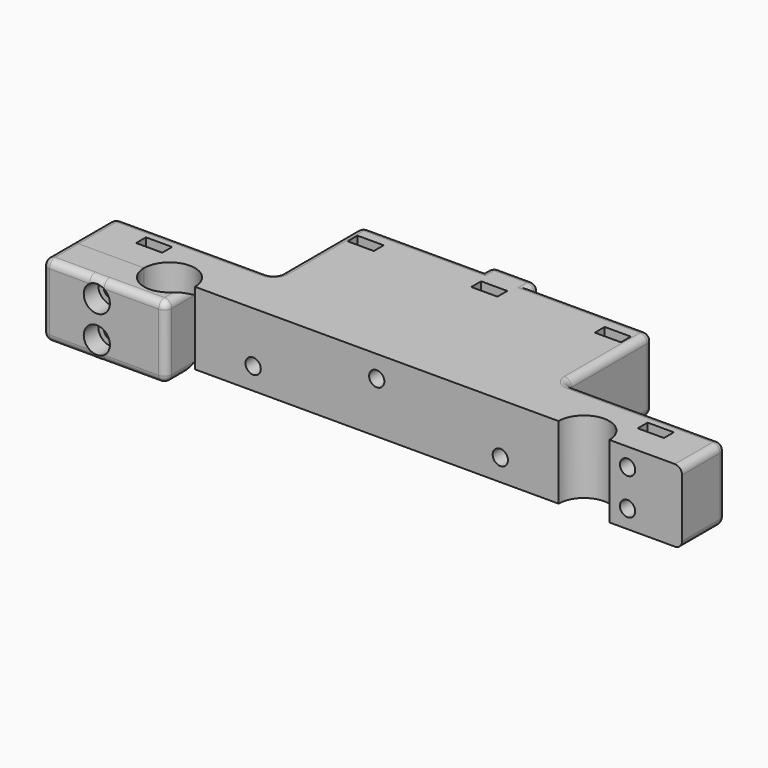
from build123d import *

# Parameters (mm, degrees)
PAD_DEPTH         = 10
SKETCH001_R       = 2.1
POCKET_DEPTH      = 45.001
POCKET_DEPTH_BACK = -3.001
SKETCH003_W       = 7.2
SKETCH003_H       = 3.4
POCKET002_DEPTH   = 20.001
POCKET004_DEPTH   = 45
FILLET001_R       = 2
PAD001_DEPTH      = 10
SKETCH005_R       = 2.1
POCKET003_DEPTH   = 10.001
SKETCH007_R       = 3.6
POCKET005_DEPTH   = 5
FILLET_R          = 2


with BuildPart() as body:
    # Sketch → Pad (new body, symmetric)
    with BuildSketch(Plane.XY):
        with BuildLine():
            Line((44, 45), (77.5, 45))
            Line((77.5, 45), (77.5, 48))
            Line((77.5, 48), (90.5, 48))
            Line((90.5, 48), (90.5, 45))
            Line((90.5, 45), (124, 45))
            Line((124, 45), (124, 15))
            Line((124, 15), (168, 15))
            Line((168, 15), (168, 0))
            Line((148, 0), (168, 0))
            ThreePointArc((148, 0), (141, 7), (134, 0))
            Line((34, 0), (134, 0))
            ThreePointArc((34, 0), (27, 7), (20, 0))
            Line((0, 0), (20, 0))
            Line((0, 0), (0, 15))
            Line((0, 15), (44, 15))
            Line((44, 45), (44, 15))
        make_face()
    extrude(amount=PAD_DEPTH, both=True)

    # Sketch001 (on Face4 of Pad) → Pocket (cut, two sides)
    with BuildSketch(Plane(origin=(0, 45, 0), x_dir=(-1, 0, 0), z_dir=(0, 1, 0))) as pocket_sk:
        with Locations((-118, -4)):
            Circle(SKETCH001_R)
        with Locations((-84, 4)):
            Circle(SKETCH001_R)
        with Locations((-50, -4)):
            Circle(SKETCH001_R)
        with Locations((-153, -5)):
            Circle(SKETCH001_R)
        with Locations((-153, 5)):
            Circle(SKETCH001_R)
        with Locations((-15, 5)):
            Circle(SKETCH001_R)
        with Locations((-15, -5)):
            Circle(SKETCH001_R)
    extrude(amount=-POCKET_DEPTH, mode=Mode.SUBTRACT)
    extrude(pocket_sk.sketch, amount=-POCKET_DEPTH_BACK, mode=Mode.SUBTRACT)

    # Sketch003 → Pocket002 (cut, through all)
    with BuildSketch(Plane(origin=(0, 0, -10), x_dir=(1, 0, 0), z_dir=(0, 0, -1))):
        with Locations((15, -9.7)):
            Rectangle(SKETCH003_W, SKETCH003_H)
        with Locations((50, -38.7)):
            Rectangle(SKETCH003_W, SKETCH003_H)
        with Locations((118, -38.7)):
            Rectangle(SKETCH003_W, SKETCH003_H)
        with Locations((84, -38.7)):
            Rectangle(SKETCH003_W, SKETCH003_H)
        with Locations((153, -9.7)):
            Rectangle(SKETCH003_W, SKETCH003_H)
    extrude(amount=-POCKET002_DEPTH, mode=Mode.SUBTRACT)

    # Sketch006 (on Face17 of Pocket002) → Pocket004 (cut)
    with BuildSketch(Plane(origin=(0, 48, 0), x_dir=(-1, 0, 0), z_dir=(0, 1, 0))):
        Polygon((-59, 7), (-59, -10), (-109, -10), (-109, 7), (-90.5, 7), (-90.5, 0), (-77.5, 0), (-77.5, 7), align=None)
    extrude(amount=-POCKET004_DEPTH, mode=Mode.SUBTRACT)

    # Fillet001
    fillet001_edges = [body.edges().sort_by_distance(p)[0] for p in [
        (0, 7.5, 10),
        (0, 7.5, -10),
        (22, 15, 10),
        (0, 15, 0),
        (22, 15, -10),
        (44, 30, 10),
        (44, 30, -10),
        (44, 45, 0),
        (60.75, 45, 10),
        (51.5, 45, -10),
        (44, 15, 0),
        (59, 45, -1.5),
        (77.5, 46.5, 10),
        (84, 48, 10),
        (77.5, 48, 8.5),
        (84, 48, 0),
        (77.5, 48, 3.5),
        (90.5, 48, 3.5),
        (90.5, 48, 8.5),
        (77.5, 24, 0),
        (59, 24, -10),
        (59, 24, 7),
        (90.5, 24, 0),
        (107.25, 45, 10),
        (90.5, 46.5, 10),
        (109, 45, -1.5),
        (124, 45, 0),
        (116.5, 45, -10),
        (109, 24, -10),
        (68.25, 3, 7),
        (99.75, 3, 7),
        (84, 3, -10),
        (109, 24, 7),
        (109, 3, -1.5),
        (59, 3, -1.5),
        (124, 30, -10),
        (124, 30, 10),
        (146, 15, 10),
        (146, 15, -10),
        (168, 15, 0),
        (168, 7.5, -10),
        (168, 7.5, 10),
        (124, 15, 0),
    ]]
    fillet(fillet001_edges, radius=FILLET001_R)


with BuildPart() as body001:
    # Sketch004 → Pad001 (new body, symmetric)
    with BuildSketch(Plane.XY):
        with BuildLine():
            Line((34, 0), (34, -10))
            Line((34, -10), (0, -10))
            Line((0, -10), (0, 0))
            Line((20, 0), (0, 0))
            ThreePointArc((20, 0), (27, -7), (34, 0))
        make_face()
    extrude(amount=PAD001_DEPTH, both=True)

    # Sketch005 (on Face2 of Pad001) → Pocket003 (cut, through all)
    with BuildSketch(Plane.XZ.offset(10)):
        with Locations((15, 5)):
            Circle(SKETCH005_R)
        with Locations((15, -5)):
            Circle(SKETCH005_R)
    extrude(amount=-POCKET003_DEPTH, mode=Mode.SUBTRACT)

    # Sketch007 (on Face3 of Pocket003) → Pocket005 (cut)
    with BuildSketch(Plane.XZ.offset(10)):
        with Locations((15, 5)):
            Circle(SKETCH007_R)
        with Locations((15, -5)):
            Circle(SKETCH007_R)
    extrude(amount=-POCKET005_DEPTH, mode=Mode.SUBTRACT)

    # Fillet
    fillet_edges = [body001.edges().sort_by_distance(p)[0] for p in [
        (34, -5, 10),
        (17, -10, 10),
        (34, -10, 0),
        (17, -10, -10),
        (0, -10, 0),
        (0, -5, 10),
        (0, -5, -10),
        (34, -5, -10),
    ]]
    fillet(fillet_edges, radius=FILLET_R)


solid = Compound([body.part, body001.part])
